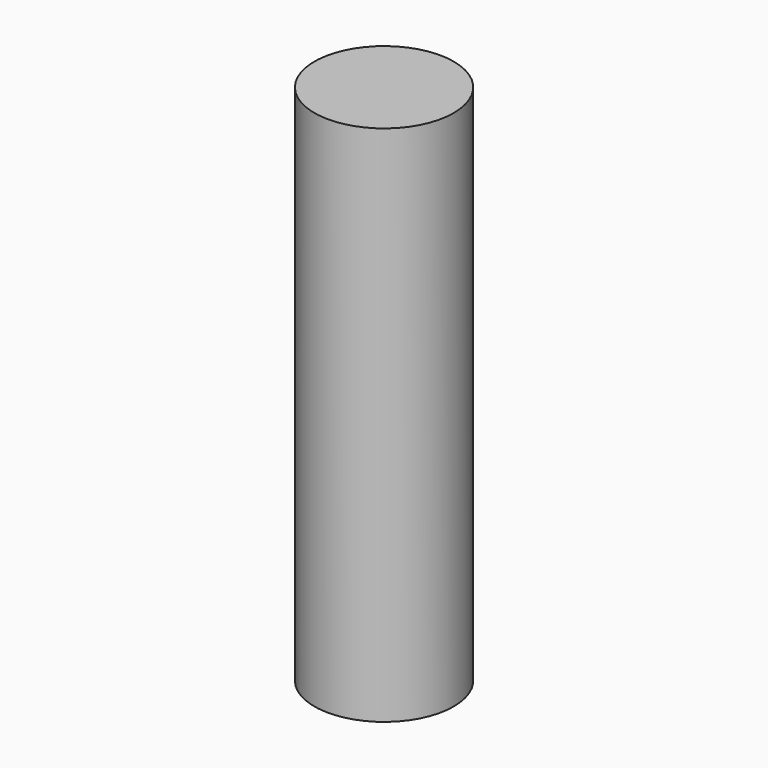
from build123d import *

# Parameters (mm, degrees)
SKETCH_R  = 4
PAD_DEPTH = 30


with BuildPart() as part:
    # Sketch → Pad (new body)
    with BuildSketch(Plane.XY):
        Circle(SKETCH_R)
    extrude(amount=PAD_DEPTH)


solid = part.part
